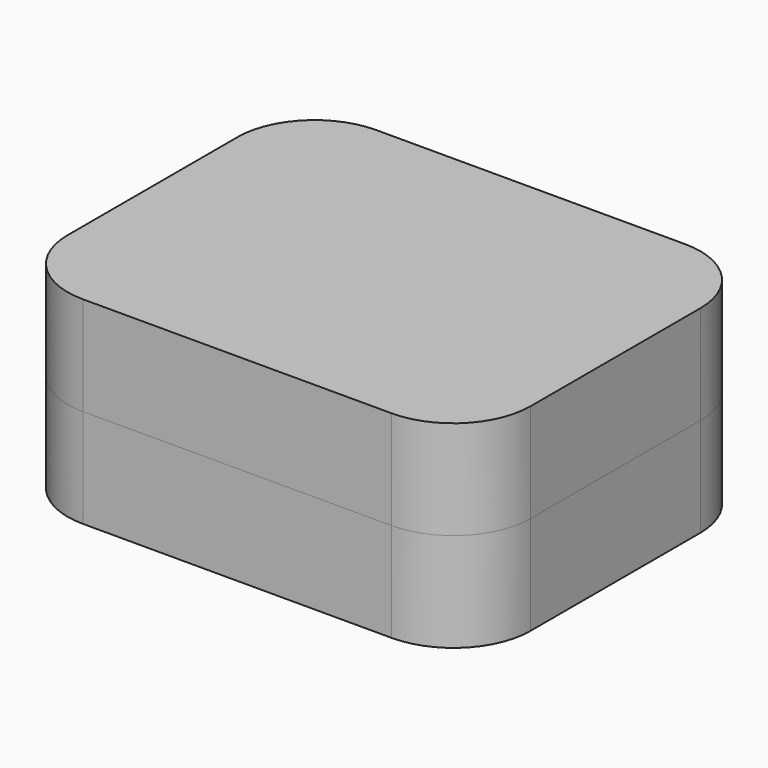
from build123d import *

# Parameters (mm, degrees)
F1_DEPTH = 10.25
F2_R     = 8
F3_R     = 8
F4_T     = -1.9
F7_DEPTH = 10.25
F8_DEPTH = 1.9


with BuildPart() as f1:
    # F0 (on Top) → F1 (new body)
    with BuildSketch(Plane.XY):
        Polygon((0, 19), (0, 0), (0, -19), (48, -19), (48, 19), align=None)
    extrude(amount=F1_DEPTH)

    # F2
    f2_edges = [f1.edges().sort_by_distance(p)[0] for p in [
        (48, -19, 5.125),
        (48, 19, 5.125),
    ]]
    fillet(f2_edges, radius=F2_R)

    # F3
    f3_edges = [f1.edges().sort_by_distance(p)[0] for p in [
        (0, -19, 5.125),
        (0, 19, 5.125),
    ]]
    fillet(f3_edges, radius=F3_R)

    # F4
    f4_openings = [f1.faces().sort_by_distance(p)[0] for p in [
        (24, 0, 10.25),
    ]]
    offset(amount=F4_T, openings=f4_openings)

    # F5 (on face) → F8 (cut, through all)
    with BuildSketch(Plane(origin=(0, 0, 0), x_dir=(0, -1, 0), z_dir=(-1, 0, 0))):
        with BuildLine():
            ThreePointArc((-5.5, 10.25), (0, 4.75), (5.5, 10.25))
            Line((5.5, 10.25), (-5.5, 10.25))
        make_face()
    extrude(amount=-F8_DEPTH, mode=Mode.SUBTRACT)


with BuildPart() as f7:
    # F6 (on face) → F7 (new body)
    with BuildSketch(Plane.XY.offset(10.25)):
        with BuildLine():
            Line((0, 11), (0, -11))
            ThreePointArc((0, -11), (2.3431457505, -16.6568542495), (8, -19))
            Line((8, -19), (40, -19))
            ThreePointArc((40, -19), (45.6568542495, -16.6568542495), (48, -11))
            Line((48, -11), (48, 11))
            ThreePointArc((48, 11), (45.6568542495, 16.6568542495), (40, 19))
            Line((40, 19), (8, 19))
            ThreePointArc((8, 19), (2.3431457505, 16.6568542495), (0, 11))
        make_face()
    extrude(amount=F7_DEPTH)


solid = Compound([f1.part, f7.part])
